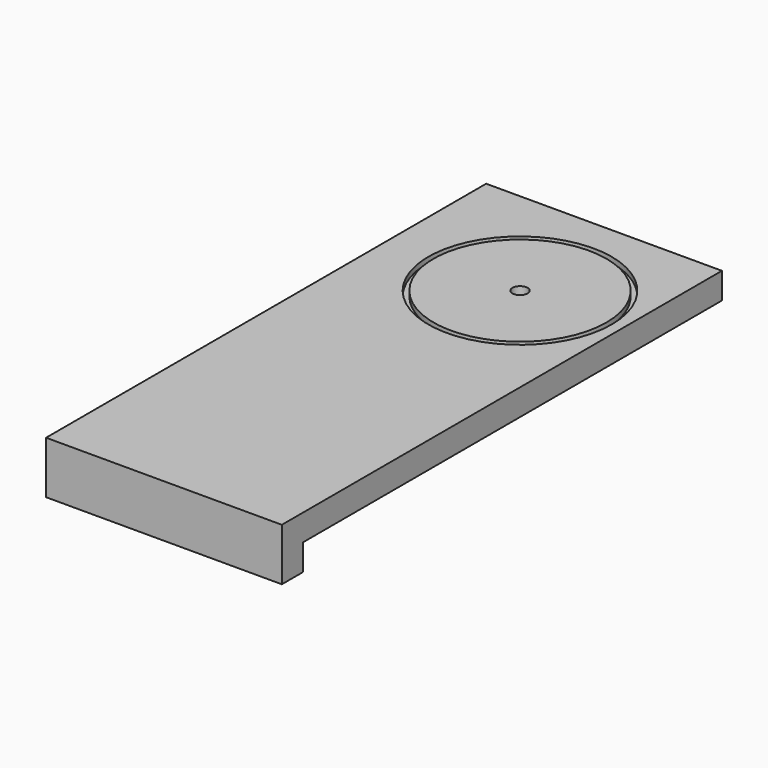
from build123d import *

# Parameters (mm, degrees)
F0_W     = 40
F0_H     = 100
F0_R     = 17.5
F0_R_2   = 1.45
F1_DEPTH = 5
F2_W     = 5
F2_H     = 100
F3_DEPTH = 10
F4_R     = 17.5
F4_R_2   = 16.5
F5_DEPTH = 1
F6_R     = 17.5
F6_R_2   = 16.5
F7_DEPTH = 1


with BuildPart() as f1:
    # F0 (on Top) → F1 (new body)
    with BuildSketch(Plane.XY):
        Rectangle(F0_W, F0_H)
        with Locations((0.5, 26.2)):
            Circle(F0_R, mode=Mode.SUBTRACT)
        with Locations((0.5, 26.2)):
            Circle(F0_R)
        with Locations((0.5, 26.2)):
            Circle(F0_R_2, mode=Mode.SUBTRACT)
    extrude(amount=-F1_DEPTH)

    # F2 (on face) → F3 (join)
    with BuildSketch(Plane.XY):
        with Locations((-22.5, 0)):
            Rectangle(F2_W, F2_H)
        Polygon((20, -50), (-20, -50), (-25, -50), (-25, -55), (20, -55), align=None)
    extrude(amount=-F3_DEPTH)

    # F4 (on face) → F5 (cut)
    with BuildSketch(Plane.XY):
        with Locations((0.5, 26.2)):
            Circle(F4_R)
        with Locations((0.5, 26.2)):
            Circle(F4_R_2, mode=Mode.SUBTRACT)
    extrude(amount=-F5_DEPTH, mode=Mode.SUBTRACT)

    # F6 (on face) → F7 (cut)
    with BuildSketch(Plane(origin=(0, 0, -5), x_dir=(1, 0, 0), z_dir=(0, 0, -1))):
        with Locations((0.5, -26.2)):
            Circle(F6_R)
        with Locations((0.5, -26.2)):
            Circle(F6_R_2, mode=Mode.SUBTRACT)
    extrude(amount=-F7_DEPTH, mode=Mode.SUBTRACT)


solid = f1.part
